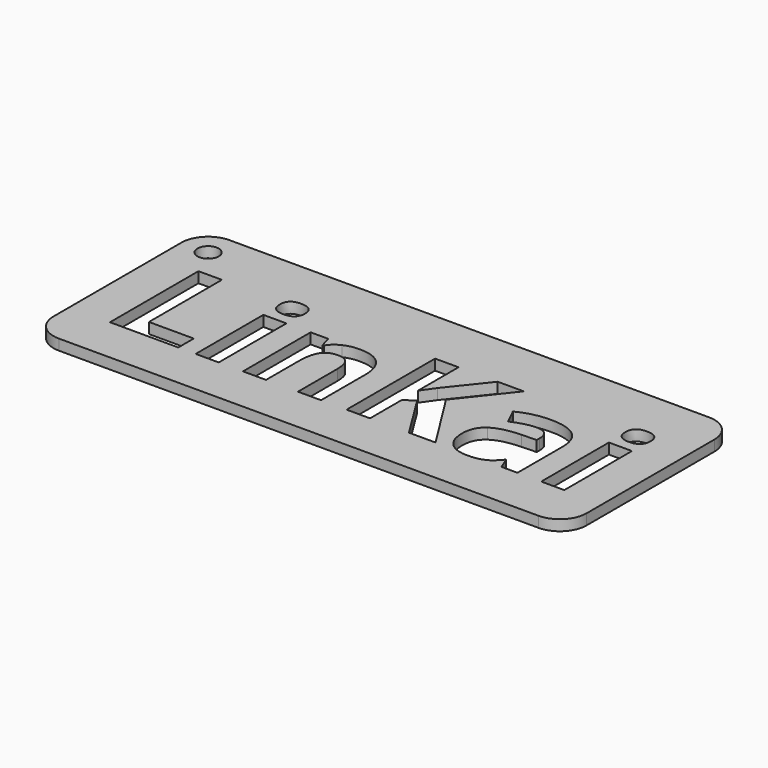
from build123d import *

# Parameters (mm, degrees)
F0_W     = 4.3279479289
F0_H     = 15.8676286083
F0_R     = 2
F1_DEPTH = 2


with BuildPart() as f1:
    # F0 (on Top) → F1 (new body)
    with BuildSketch(Plane.XY):
        with BuildLine():
            ThreePointArc((0, 5), (1.4644660941, 1.4644660941), (5, 0))
            Line((5, 0), (95, 0))
            ThreePointArc((95, 0), (98.5355339059, 1.4644660941), (100, 5))
            Line((100, 5), (100, 35))
            ThreePointArc((100, 35), (98.5355339059, 38.5355339059), (95, 40))
            Line((95, 40), (5, 40))
            ThreePointArc((5, 40), (1.4644660941, 38.5355339059), (0, 35))
            Line((0, 35), (0, 5))
        make_face()
        Polygon((20.4271134466, 8.7217205013), (7.6113012163, 8.7217205013), (7.6113012163, 29.4713470357), (12.0119114399, 29.4713470357), (12.0119114399, 12.3548352371), (20.4271134466, 12.3548352371), align=None, mode=Mode.SUBTRACT)
        with Locations((25.8563492798, 16.6555348055)):
            Rectangle(F0_W, F0_H, mode=Mode.SUBTRACT)
        with BuildLine():
            Line((47.2077104423, 19.0670147113), (47.2077104423, 8.7217205013))
            Line((47.2077104423, 8.7217205013), (42.8797625133, 8.7217205013))
            Line((42.8797625133, 8.7217205013), (42.8797625133, 17.9907044709))
            add(Edge.make_bspline(
                [(42.8797625133, 17.9907044709), (42.8797625133, 19.7073511835), (42.2689450984, 20.5656745398)],
                knots=[0, 0, 0, 1, 1, 1], degree=2))
            add(Edge.make_bspline(
                [(42.2689450984, 20.5656745398), (41.6581276834, 21.4239978961), (40.3229580181, 21.4239978961)],
                knots=[0, 0, 0, 1, 1, 1], degree=2))
            add(Edge.make_bspline(
                [(40.3229580181, 21.4239978961), (38.5064006502, 21.4239978961), (37.6980326215, 20.2114458531)],
                knots=[0, 0, 0, 1, 1, 1], degree=2))
            add(Edge.make_bspline(
                [(37.6980326215, 20.2114458531), (36.8896645928, 18.99889381), (36.8896645928, 16.1877712833)],
                knots=[0, 0, 0, 1, 1, 1], degree=2))
            Line((36.8896645928, 16.1877712833), (36.8896645928, 8.7217205013))
            Line((36.8896645928, 8.7217205013), (32.5617166639, 8.7217205013))
            Line((32.5617166639, 8.7217205013), (32.5617166639, 24.5893491096))
            Line((32.5617166639, 24.5893491096), (35.8678510734, 24.5893491096))
            Line((35.8678510734, 24.5893491096), (36.4491494311, 22.559346251))
            Line((36.4491494311, 22.559346251), (36.6898432823, 22.559346251))
            add(Edge.make_bspline(
                [(36.6898432823, 22.559346251), (37.4164662295, 23.7083187862), (38.6857856903, 24.296429234)],
                knots=[0, 0, 0, 1, 1, 1], degree=2))
            add(Edge.make_bspline(
                [(38.6857856903, 24.296429234), (39.9551051511, 24.8845396819), (41.5718412085, 24.8845396819)],
                knots=[0, 0, 0, 1, 1, 1], degree=2))
            add(Edge.make_bspline(
                [(41.5718412085, 24.8845396819), (44.3420911945, 24.8845396819), (45.7749008184, 23.3881505501)],
                knots=[0, 0, 0, 1, 1, 1], degree=2))
            add(Edge.make_bspline(
                [(45.7749008184, 23.3881505501), (47.2077104423, 21.8917614183), (47.2077104423, 19.0670147113)],
                knots=[0, 0, 0, 1, 1, 1], degree=2))
        make_face(mode=Mode.SUBTRACT)
        Polygon((61.3995648787, 20.2886495412), (68.6930427106, 8.7217205013), (63.697509949, 8.7217205013), (58.2614620257, 17.4639028342), (56.4040321171, 16.1287331688), (56.4040321171, 8.7217205013), (52.0034218934, 8.7217205013), (52.0034218934, 29.4713470357), (56.4040321171, 29.4713470357), (56.4040321171, 19.9752933952), (58.1343030099, 22.418563055), (63.7565480635, 29.4713470357), (68.6385459896, 29.4713470357), align=None, mode=Mode.SUBTRACT)
        with BuildLine():
            Line((84.0611180428, 8.7217205013), (81.0410914187, 8.7217205013))
            Line((81.0410914187, 8.7217205013), (80.200933636, 10.8788823757))
            Line((80.200933636, 10.8788823757), (80.0873988006, 10.8788823757))
            add(Edge.make_bspline(
                [(80.0873988006, 10.8788823757), (78.9974643798, 9.5028401695), (77.8394090578, 8.9692264427)],
                knots=[0, 0, 0, 1, 1, 1], degree=2))
            add(Edge.make_bspline(
                [(77.8394090578, 8.9692264427), (76.6813537358, 8.4356127159), (74.8239238272, 8.4356127159)],
                knots=[0, 0, 0, 1, 1, 1], degree=2))
            add(Edge.make_bspline(
                [(74.8239238272, 8.4356127159), (72.5396029371, 8.4356127159), (71.2271402388, 9.7435340208)],
                knots=[0, 0, 0, 1, 1, 1], degree=2))
            add(Edge.make_bspline(
                [(71.2271402388, 9.7435340208), (69.9146775405, 11.0514553256), (69.9146775405, 13.4629352315)],
                knots=[0, 0, 0, 1, 1, 1], degree=2))
            add(Edge.make_bspline(
                [(69.9146775405, 13.4629352315), (69.9146775405, 15.9879499728), (71.6812795808, 17.1868778356)],
                knots=[0, 0, 0, 1, 1, 1], degree=2))
            add(Edge.make_bspline(
                [(71.6812795808, 17.1868778356), (73.447881621, 18.3858056984), (77.008334062, 18.5129647141)],
                knots=[0, 0, 0, 1, 1, 1], degree=2))
            Line((77.008334062, 18.5129647141), (79.7649598678, 18.5992511891))
            Line((79.7649598678, 18.5992511891), (79.7649598678, 19.2940843823))
            add(Edge.make_bspline(
                [(79.7649598678, 19.2940843823), (79.7649598678, 21.7055642881), (77.2944418475, 21.7055642881)],
                knots=[0, 0, 0, 1, 1, 1], degree=2))
            add(Edge.make_bspline(
                [(77.2944418475, 21.7055642881), (75.3915980046, 21.7055642881), (72.8211693291, 20.556591753)],
                knots=[0, 0, 0, 1, 1, 1], degree=2))
            Line((72.8211693291, 20.556591753), (71.3906304019, 23.4812491152))
            add(Edge.make_bspline(
                [(71.3906304019, 23.4812491152), (74.129090634, 24.9163294358), (77.462473404, 24.9163294358)],
                knots=[0, 0, 0, 1, 1, 1], degree=2))
            add(Edge.make_bspline(
                [(77.462473404, 24.9163294358), (80.655072978, 24.9163294358), (82.3580955104, 23.5243923527)],
                knots=[0, 0, 0, 1, 1, 1], degree=2))
            add(Edge.make_bspline(
                [(82.3580955104, 23.5243923527), (84.0611180428, 22.1324552696), (84.0611180428, 19.2940843823)],
                knots=[0, 0, 0, 1, 1, 1], degree=2))
            Line((84.0611180428, 19.2940843823), (84.0611180428, 8.7217205013))
        make_face(mode=Mode.SUBTRACT)
        with Locations((90.6847403453, 16.6555348055)):
            Rectangle(F0_W, F0_H, mode=Mode.SUBTRACT)
        with BuildLine():
            add(Edge.make_bspline(
                [(25.8631613699, 26.5603138537), (23.5061781851, 26.5603138537), (23.5061781851, 28.6902273676)],
                knots=[0, 0, 0, 1, 1, 1], degree=2))
            add(Edge.make_bspline(
                [(23.5061781851, 28.6902273676), (23.5061781851, 30.8065167011), (25.8631613699, 30.8065167011)],
                knots=[0, 0, 0, 1, 1, 1], degree=2))
            add(Edge.make_bspline(
                [(25.8631613699, 30.8065167011), (28.2201445547, 30.8065167011), (28.2201445547, 28.6902273676)],
                knots=[0, 0, 0, 1, 1, 1], degree=2))
            add(Edge.make_bspline(
                [(28.2201445547, 28.6902273676), (28.2201445547, 27.6820380284), (27.6320341068, 27.1211759411)],
                knots=[0, 0, 0, 1, 1, 1], degree=2))
            add(Edge.make_bspline(
                [(27.6320341068, 27.1211759411), (27.043923659, 26.5603138537), (25.8631613699, 26.5603138537)],
                knots=[0, 0, 0, 1, 1, 1], degree=2))
        make_face(mode=Mode.SUBTRACT)
        with Locations((5, 35)):
            Circle(F0_R, mode=Mode.SUBTRACT)
        with BuildLine():
            add(Edge.make_bspline(
                [(90.6915524354, 26.5603138537), (88.3345692506, 26.5603138537), (88.3345692506, 28.6902273676)],
                knots=[0, 0, 0, 1, 1, 1], degree=2))
            add(Edge.make_bspline(
                [(88.3345692506, 28.6902273676), (88.3345692506, 30.8065167011), (90.6915524354, 30.8065167011)],
                knots=[0, 0, 0, 1, 1, 1], degree=2))
            add(Edge.make_bspline(
                [(90.6915524354, 30.8065167011), (93.0485356202, 30.8065167011), (93.0485356202, 28.6902273676)],
                knots=[0, 0, 0, 1, 1, 1], degree=2))
            add(Edge.make_bspline(
                [(93.0485356202, 28.6902273676), (93.0485356202, 27.6820380284), (92.4604251724, 27.1211759411)],
                knots=[0, 0, 0, 1, 1, 1], degree=2))
            add(Edge.make_bspline(
                [(92.4604251724, 27.1211759411), (91.8723147246, 26.5603138537), (90.6915524354, 26.5603138537)],
                knots=[0, 0, 0, 1, 1, 1], degree=2))
        make_face(mode=Mode.SUBTRACT)
    extrude(amount=F1_DEPTH)


solid = f1.part
